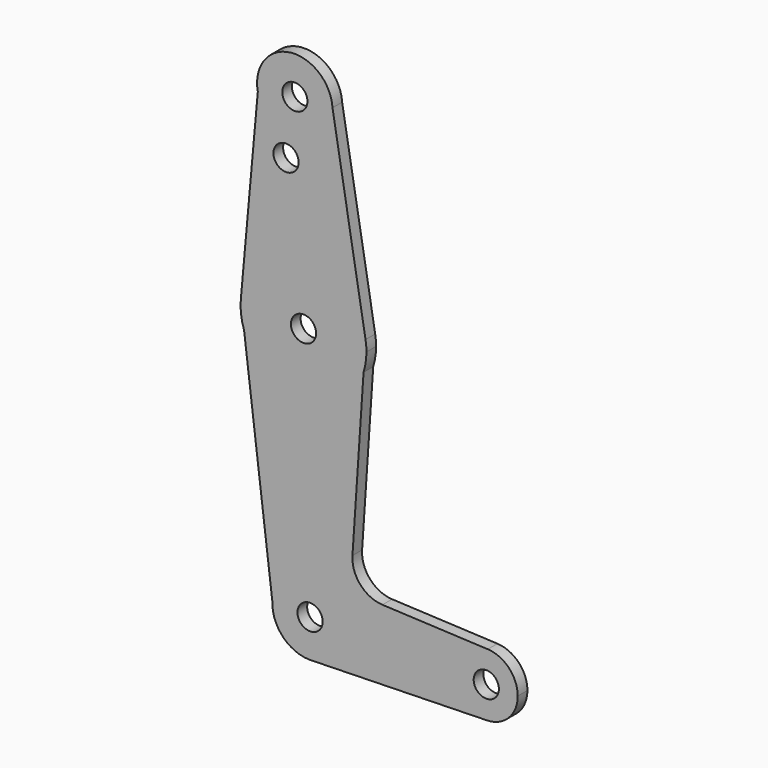
from build123d import *

# Parameters (mm, degrees)
F0_R     = 3.175
F1_DEPTH = 3.048


with BuildPart() as f1:
    # F0 (on Front) → F1 (new body)
    with BuildSketch(Plane.XZ):
        with BuildLine():
            ThreePointArc((-321.7564025912, 334.0895734726), (-321.7015968064, 330.7231151585), (-320.9380625421, 327.44392918))
            Line((-320.9380625421, 327.44392918), (-321.7564025912, 334.0895734726))
        make_face()
        with BuildLine():
            Line((-290.2974252691, 335.3372711663), (-290.7971809635, 327.9155701039))
            ThreePointArc((-290.7971809635, 327.9155701039), (-290.2532992904, 330.2617962932), (-290.0706037123, 332.663297268))
            ThreePointArc((-290.0706037123, 332.663297268), (-290.1274107405, 334.0050856666), (-290.2974252691, 335.3372711663))
        make_face()
        with BuildLine():
            ThreePointArc((-316.9851124556, 386.9810880924), (-317.6199945985, 384.3190629907), (-317.4717623694, 381.5863939322))
            Line((-317.4717623694, 381.5863939322), (-316.9851124556, 386.9810880924))
        make_face()
        with BuildLine():
            ThreePointArc((-259.6446209066, 260.734286263), (-254.1571663565, 263.125451315), (-251.9001693332, 268.6694383444))
            ThreePointArc((-251.9001693332, 268.6694383444), (-254.0966588989, 274.1507434301), (-259.4704888149, 276.5984411012))
            ThreePointArc((-259.4704888149, 276.5984411012), (-267.7746912117, 268.7565586629), (-259.6446209066, 260.734286263))
        make_face()
        with Locations((-259.8376693332, 268.6694383444)):
            Circle(F0_R, mode=Mode.SUBTRACT)
        with BuildLine():
            ThreePointArc((-313.8037286071, 269.5068336566), (-310.883862187, 262.294551898), (-303.5604223098, 259.665891319))
            ThreePointArc((-303.5604223098, 259.665891319), (-297.2982770473, 262.6893212991), (-294.7599257543, 269.163297268))
            ThreePointArc((-294.7599257543, 269.163297268), (-304.1131296143, 278.6867478551), (-313.8037286071, 269.5068336566))
        make_face()
        with Locations((-304.2849257543, 269.163297268)):
            Circle(F0_R, mode=Mode.SUBTRACT)
        with BuildLine():
            ThreePointArc((-259.6446209066, 260.734286263), (-267.7746912117, 268.7565586629), (-259.4704888149, 276.5984411012))
            Line((-259.4704888149, 276.5984411012), (-286.0346860353, 277.8285902137))
            ThreePointArc((-286.0346860353, 277.8285902137), (-291.5983945164, 280.476578712), (-293.5991548657, 286.3044130588))
            Line((-293.5991548657, 286.3044130588), (-290.7971809635, 327.9155701039))
            ThreePointArc((-290.7971809635, 327.9155701039), (-305.6972240105, 316.790240457), (-320.9380625421, 327.44392918))
            Line((-320.9380625421, 327.44392918), (-313.8037286071, 269.5068336566))
            ThreePointArc((-313.8037286071, 269.5068336566), (-304.1131296143, 278.6867478551), (-294.7599257543, 269.163297268))
            ThreePointArc((-294.7599257543, 269.163297268), (-297.2982770473, 262.6893212991), (-303.5604223098, 259.665891319))
            Line((-303.5604223098, 259.665891319), (-259.6446209066, 260.734286263))
        make_face()
        with BuildLine():
            ThreePointArc((-321.7564025912, 334.0895734726), (-306.5747290855, 348.5258262676), (-290.2974252691, 335.3372711663))
            Line((-290.2974252691, 335.3372711663), (-298.6296766797, 384.0978656477))
            ThreePointArc((-298.6296766797, 384.0978656477), (-298.6138070933, 383.78075783), (-298.6085152711, 383.463297268))
            ThreePointArc((-298.6085152711, 383.463297268), (-307.1904295409, 373.9851004824), (-317.4717623694, 381.5863939322))
            Line((-317.4717623694, 381.5863939322), (-321.7564025912, 334.0895734726))
        make_face()
        with Locations((-310.3549778461, 369.188497268)):
            Circle(F0_R, mode=Mode.SUBTRACT)
        with BuildLine():
            ThreePointArc((-298.6085152711, 383.463297268), (-298.6138070933, 383.78075783), (-298.6296766797, 384.0978656477))
            ThreePointArc((-298.6296766797, 384.0978656477), (-306.6554768313, 392.8729214565), (-316.9851124556, 386.9810880924))
            Line((-316.9851124556, 386.9810880924), (-317.4717623694, 381.5863939322))
            ThreePointArc((-317.4717623694, 381.5863939322), (-307.1904295409, 373.9851004824), (-298.6085152711, 383.463297268))
        make_face()
        with Locations((-308.1335152711, 383.463297268)):
            Circle(F0_R, mode=Mode.SUBTRACT)
        with BuildLine():
            ThreePointArc((-320.9380625421, 327.44392918), (-305.6972240105, 316.790240457), (-290.7971809635, 327.9155701039))
            Line((-290.7971809635, 327.9155701039), (-290.2974252691, 335.3372711663))
            ThreePointArc((-290.2974252691, 335.3372711663), (-306.5747290855, 348.5258262676), (-321.7564025912, 334.0895734726))
            Line((-321.7564025912, 334.0895734726), (-320.9380625421, 327.44392918))
        make_face()
        with Locations((-305.9456037123, 332.663297268)):
            Circle(F0_R, mode=Mode.SUBTRACT)
    extrude(amount=F1_DEPTH)


solid = f1.part
